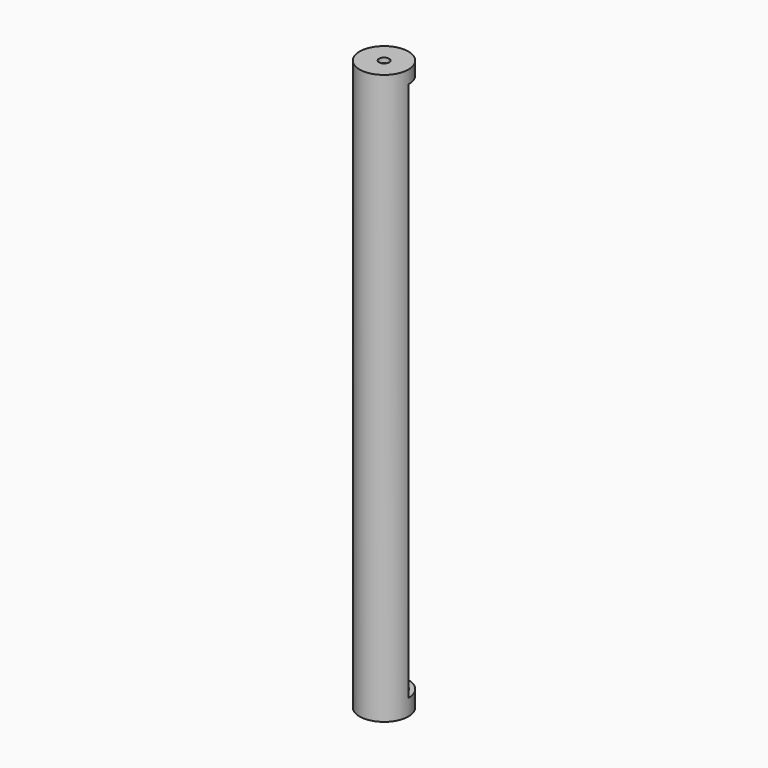
from build123d import *

# Parameters (mm, degrees)
CYLINDER_R        = 7.5
CYLINDER_DEPTH    = 175
BOX_W             = 10
BOX_H             = 10
BOX_DEPTH         = 166
CYLINDER001_R     = 6
CYLINDER001_DEPTH = 171
CYLINDER002_R     = 1.55
CYLINDER002_DEPTH = 175


with BuildPart() as part:
    # Cylinder → Cylinder (join)
    with BuildSketch(Plane.XY):
        Circle(CYLINDER_R)
    extrude(amount=CYLINDER_DEPTH)

    # Box → Box (cut)
    with BuildSketch(Plane.XY.offset(5)):
        with Locations((5, 5)):
            Rectangle(BOX_W, BOX_H)
    extrude(amount=BOX_DEPTH, mode=Mode.SUBTRACT)

    # Cylinder001 → Cylinder001 (cut)
    with BuildSketch(Plane.XY.offset(2.5)):
        Circle(CYLINDER001_R)
    extrude(amount=CYLINDER001_DEPTH, mode=Mode.SUBTRACT)

    # Cylinder002 → Cylinder002 (cut)
    with BuildSketch(Plane.XY):
        Circle(CYLINDER002_R)
    extrude(amount=CYLINDER002_DEPTH, mode=Mode.SUBTRACT)


solid = part.part
